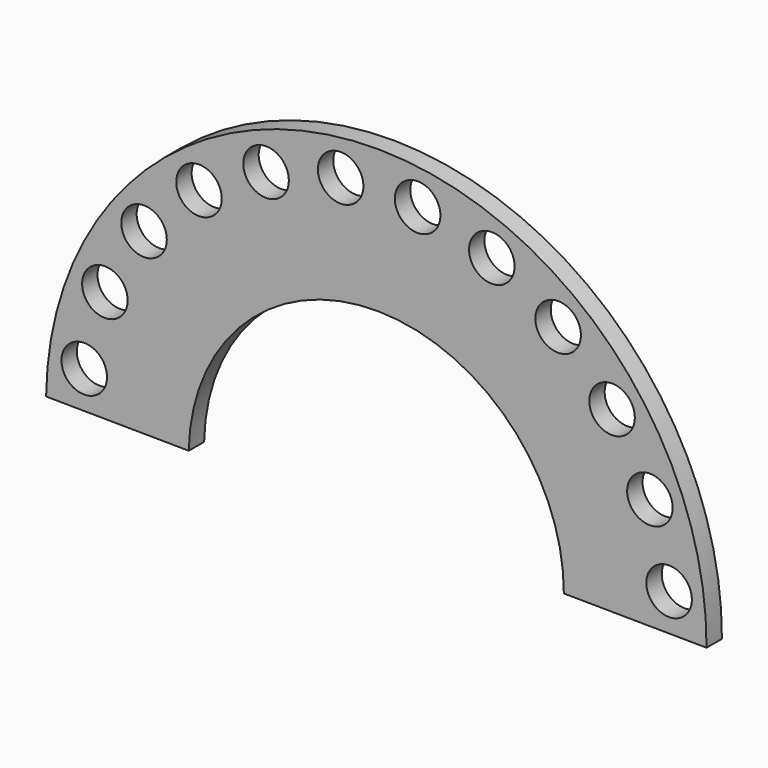
from build123d import *

# Parameters (mm, degrees)
F0_R     = 71
F1_DEPTH = 60


with BuildPart() as f1:
    # F0 (on Front) → F1 (new body)
    with BuildSketch(Plane.XZ):
        with BuildLine():
            ThreePointArc((-813.994927, 102.985748), (-223.392402, 678.275812), (355.922522, 91.620702))
            Line((355.922522, 91.620702), (800.907434, 87.29794))
            ThreePointArc((800.907434, 87.29794), (-219.069698, 1123.254816), (-1258.979839, 107.308509))
            Line((-1258.979839, 107.308509), (-813.994927, 102.985748))
        make_face()
        with Locations((-1139.994805, 222.242215)):
            Circle(F0_R, mode=Mode.SUBTRACT)
        with Locations((-1075.58415, 453.612111)):
            Circle(F0_R, mode=Mode.SUBTRACT)
        with Locations((684.177669, 204.521474)):
            Circle(F0_R, mode=Mode.SUBTRACT)
        with Locations((624.273984, 437.099009)):
            Circle(F0_R, mode=Mode.SUBTRACT)
        with Locations((-953.485299, 660.427565)):
            Circle(F0_R, mode=Mode.SUBTRACT)
        with Locations((-782.019088, 828.594444)):
            Circle(F0_R, mode=Mode.SUBTRACT)
        with Locations((-572.870654, 946.652456)):
            Circle(F0_R, mode=Mode.SUBTRACT)
        with Locations((-340.293119, 1006.55614)):
            Circle(F0_R, mode=Mode.SUBTRACT)
        with Locations((506.215973, 646.247443)):
            Circle(F0_R, mode=Mode.SUBTRACT)
        with Locations((338.049093, 817.713654)):
            Circle(F0_R, mode=Mode.SUBTRACT)
        with Locations((131.233639, 939.812505)):
            Circle(F0_R, mode=Mode.SUBTRACT)
        with Locations((-100.136257, 1004.22316)):
            Circle(F0_R, mode=Mode.SUBTRACT)
    extrude(amount=F1_DEPTH)


solid = f1.part
